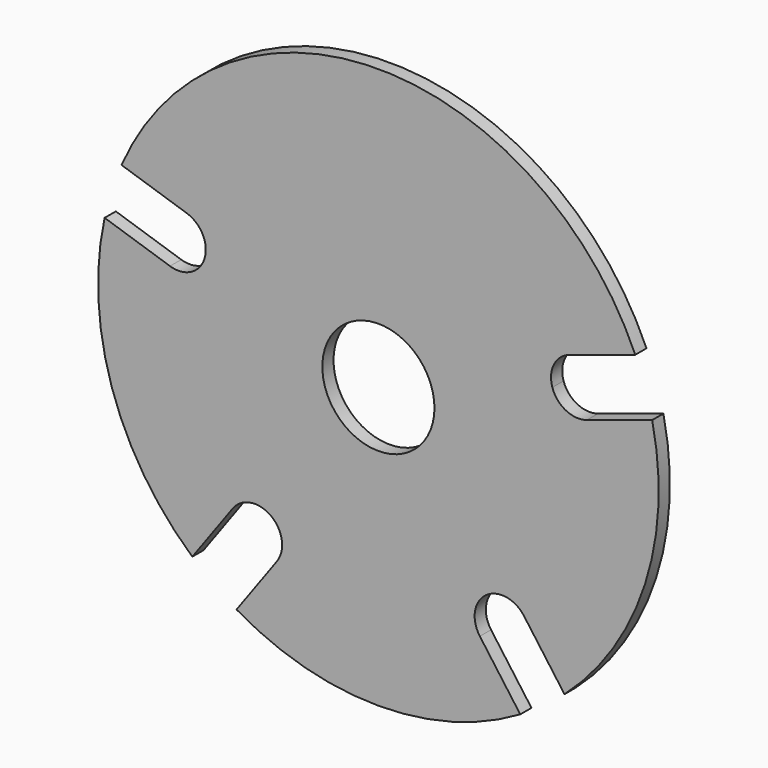
from build123d import *

# Parameters (mm, degrees)
F0_R     = 20.32
F0_R_2   = 4.064
F1_DEPTH = 0.508
F3_DEPTH = 25.4


with BuildPart() as f1:
    # F0 (on Front) → F1 (new body, symmetric)
    with BuildSketch(Plane.XZ):
        Circle(F0_R)
        Circle(F0_R_2, mode=Mode.SUBTRACT)
    extrude(amount=F1_DEPTH, both=True)

    # F2 (on face) → F3 (cut)
    with BuildSketch(Plane.XZ.offset(0.508)):
        with BuildLine():
            Line((18.6211682286, 8.133541283), (13.8818768391, 6.5936521644))
            ThreePointArc((13.8818768391, 6.5936521644), (12.7288391826, 5.6088649724), (12.6098681383, 4.097194525))
            ThreePointArc((12.6098681383, 4.097194525), (13.5946553303, 2.9441568686), (15.1063257776, 2.8251858242))
            Line((15.1063257776, 2.8251858242), (19.8456171671, 4.3650749428))
            ThreePointArc((19.8456171671, 4.3650749428), (19.3254684111, 6.2792253257), (18.6211682286, 8.133541283))
        make_face()
        with BuildLine():
            ThreePointArc((10.284065937, -17.5254211876), (11.9437963266, -16.4392253257), (13.4897148755, -15.1963809039))
            Line((13.4897148755, -15.1963809039), (10.5606717142, -11.1648988524))
            ThreePointArc((10.5606717142, -11.1648988524), (9.2677752071, -10.3726108539), (7.7933271031, -10.726594525))
            ThreePointArc((7.7933271031, -10.726594525), (7.0010391046, -12.0194910321), (7.3550227757, -13.4939391361))
            Line((7.3550227757, -13.4939391361), (10.284065937, -17.5254211876))
        make_face()
        with BuildLine():
            Line((-10.5606717142, -11.1648988524), (-13.4897148755, -15.1963809039))
            ThreePointArc((-13.4897148755, -15.1963809039), (-11.9437963266, -16.4392253257), (-10.284065937, -17.5254211876))
            Line((-10.284065937, -17.5254211876), (-7.3550227757, -13.4939391361))
            ThreePointArc((-7.3550227757, -13.4939391361), (-7.0010391046, -12.0194910321), (-7.7933271031, -10.726594525))
            ThreePointArc((-7.7933271031, -10.726594525), (-9.2677752071, -10.3726108539), (-10.5606717142, -11.1648988524))
        make_face()
        with BuildLine():
            Line((-13.8818768391, 6.5936521644), (-18.6211682286, 8.133541283))
            ThreePointArc((-18.6211682286, 8.133541283), (-19.3254684111, 6.2792253257), (-19.8456171671, 4.3650749428))
            Line((-19.8456171671, 4.3650749428), (-15.1063257776, 2.8251858242))
            ThreePointArc((-15.1063257776, 2.8251858242), (-13.5946553303, 2.9441568686), (-12.6098681383, 4.097194525))
            ThreePointArc((-12.6098681383, 4.097194525), (-12.7288391826, 5.6088649724), (-13.8818768391, 6.5936521644))
        make_face()
    extrude(amount=-F3_DEPTH, mode=Mode.SUBTRACT)


solid = f1.part
